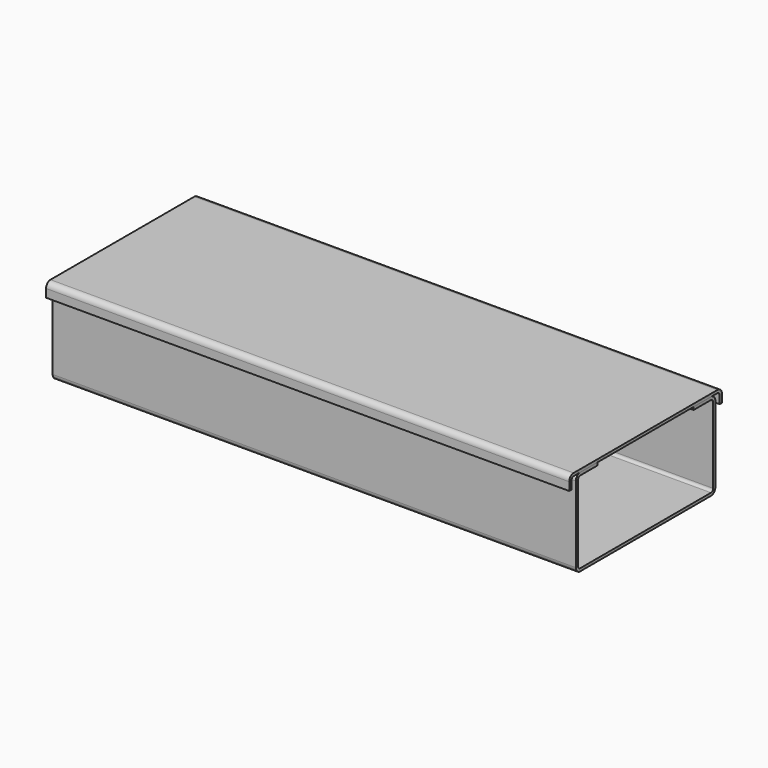
from build123d import *

# Parameters (mm, degrees)
F1_DEPTH = 304.8
F3_DEPTH = 304.8


with BuildPart() as f1:
    # F0 (on Right) → F1 (new body)
    with BuildSketch(Plane.YZ):
        with BuildLine():
            Line((-47.5996, 0), (0, 0))
            Line((0, 0), (47.5996, 0))
            ThreePointArc((47.5996, 0), (49.862625, 0.937375), (50.8, 3.2004))
            Line((50.8, 3.2004), (50.8, 47.5996))
            ThreePointArc((50.8, 47.5996), (49.862625, 49.862625), (47.5996, 50.8))
            Line((47.5996, 50.8), (34.925, 50.8))
            Line((34.925, 50.8), (34.925, 49.1871))
            Line((34.925, 49.1871), (47.5996, 49.1871))
            ThreePointArc((47.5996, 49.1871), (48.722132, 48.722132), (49.1871, 47.5996))
            Line((49.1871, 47.5996), (49.1871, 3.2004))
            ThreePointArc((49.1871, 3.2004), (48.722132, 2.077868), (47.5996, 1.6129))
            Line((47.5996, 1.6129), (0, 1.6129))
            Line((0, 1.6129), (-47.5996, 1.6129))
            ThreePointArc((-47.5996, 1.6129), (-48.722132, 2.077868), (-49.1871, 3.2004))
            Line((-49.1871, 3.2004), (-49.1871, 47.5996))
            ThreePointArc((-49.1871, 47.5996), (-48.722132, 48.722132), (-47.5996, 49.1871))
            Line((-47.5996, 49.1871), (-34.925, 49.1871))
            Line((-34.925, 49.1871), (-34.925, 50.8))
            Line((-34.925, 50.8), (-47.5996, 50.8))
            ThreePointArc((-47.5996, 50.8), (-49.862625, 49.862625), (-50.8, 47.5996))
            Line((-50.8, 47.5996), (-50.8, 3.2004))
            ThreePointArc((-50.8, 3.2004), (-49.862625, 0.937375), (-47.5996, 0))
        make_face()
    extrude(amount=F1_DEPTH)


with BuildPart() as f3:
    # F2 (on Right) → F3 (new body)
    with BuildSketch(Plane.YZ):
        with BuildLine():
            Line((-52.3875, 50.8), (0, 50.8))
            Line((0, 50.8), (52.3875, 50.8))
            ThreePointArc((52.3875, 50.8), (53.510032, 50.335032), (53.975, 49.2125))
            Line((53.975, 49.2125), (53.975, 44.45))
            Line((53.975, 44.45), (55.5879, 44.45))
            Line((55.5879, 44.45), (55.5879, 49.2125))
            ThreePointArc((55.5879, 49.2125), (54.650525, 51.475525), (52.3875, 52.4129))
            Line((52.3875, 52.4129), (0, 52.4129))
            Line((0, 52.4129), (-52.3875, 52.4129))
            ThreePointArc((-52.3875, 52.4129), (-54.650525, 51.475525), (-55.5879, 49.2125))
            Line((-55.5879, 49.2125), (-55.5879, 44.45))
            Line((-55.5879, 44.45), (-53.975, 44.45))
            Line((-53.975, 44.45), (-53.975, 49.2125))
            ThreePointArc((-53.975, 49.2125), (-53.510032, 50.335032), (-52.3875, 50.8))
        make_face()
    extrude(amount=F3_DEPTH)


solid = Compound([f1.part, f3.part])
